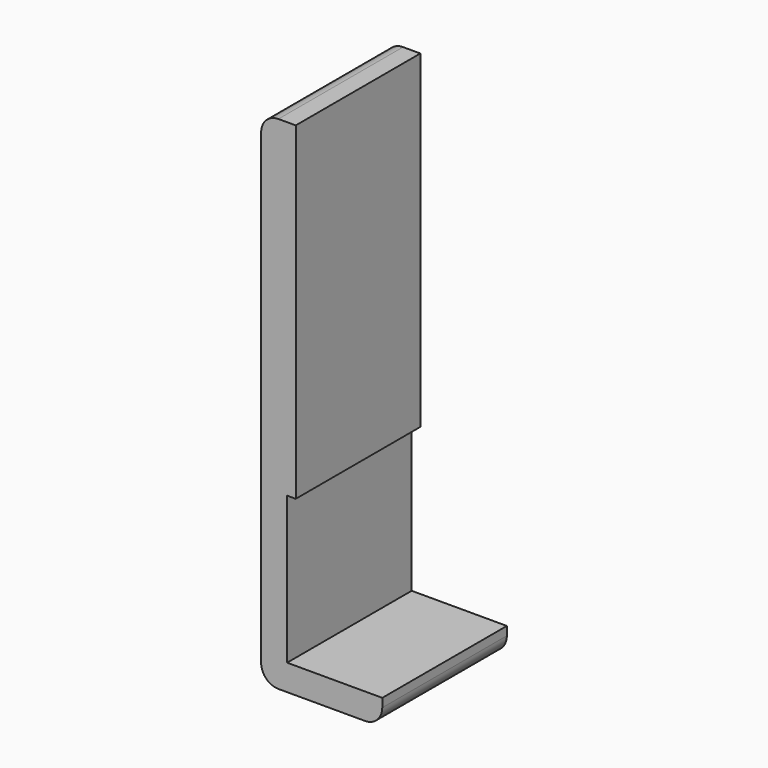
from build123d import *

# Parameters (mm, degrees)
F1_DEPTH = 9
F2_R     = 2
F3_W     = 18
F3_H     = 17
F4_DEPTH = 1


with BuildPart() as f1:
    # F0 (on Front) → F1 (new body, symmetric)
    with BuildSketch(Plane.XZ):
        Polygon((10, 0), (0, 0), (0, 55), (-4, 55), (-4, -3), (10, -3), align=None)
    extrude(amount=F1_DEPTH, both=True)

    # F2
    f2_edges = [f1.edges().sort_by_distance(p)[0] for p in [
        (-4, 0, 55),
        (-4, 0, -3),
        (10, 0, -3),
    ]]
    fillet(f2_edges, radius=F2_R)

    # F3 (on face) → F4 (cut)
    with BuildSketch(Plane.YZ):
        with Locations((0, 8.5)):
            Rectangle(F3_W, F3_H)
    extrude(amount=-F4_DEPTH, mode=Mode.SUBTRACT)


solid = f1.part
